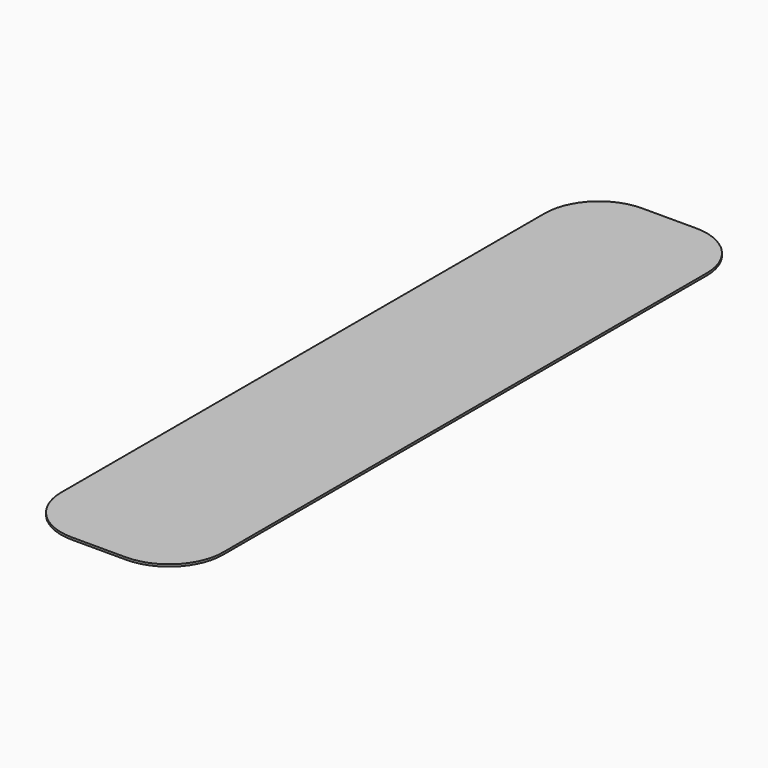
from build123d import *

# Parameters (mm, degrees)
F0_W     = 25
F0_H     = 280
F0_H_2   = 25
F1_DEPTH = 1


with BuildPart() as f1:
    # F0 (on Top) → F1 (new body)
    with BuildSketch(Plane.XY):
        with Locations((12.591098, 165.051688)):
            Rectangle(F0_W, F0_H)
        with Locations((37.591098, 165.051688)):
            Rectangle(F0_W, F0_H)
        with Locations((62.591098, 165.051688)):
            Rectangle(F0_W, F0_H)
        with BuildLine():
            Line((75.091098, 25.051688), (50.091098, 25.051688))
            Line((50.091098, 25.051688), (50.091098, 0.051688))
            ThreePointArc((50.091098, 0.051688), (67.768768, 7.374019), (75.091098, 25.051688))
        make_face()
        with Locations((37.591098, 12.551688)):
            Rectangle(F0_W, F0_H_2)
        with BuildLine():
            Line((25.091098, 0.051688), (25.091098, 25.051688))
            Line((25.091098, 25.051688), (0.091098, 25.051688))
            ThreePointArc((0.091098, 25.051688), (7.413429, 7.374019), (25.091098, 0.051688))
        make_face()
        with BuildLine():
            Line((0.091098, 305.051688), (25.091098, 305.051688))
            Line((25.091098, 305.051688), (25.091098, 330.051688))
            ThreePointArc((25.091098, 330.051688), (7.413429, 322.729358), (0.091098, 305.051688))
        make_face()
        with Locations((37.591098, 317.551688)):
            Rectangle(F0_W, F0_H_2)
        with BuildLine():
            Line((50.091098, 330.051688), (50.091098, 305.051688))
            Line((50.091098, 305.051688), (75.091098, 305.051688))
            ThreePointArc((75.091098, 305.051688), (67.768768, 322.729358), (50.091098, 330.051688))
        make_face()
    extrude(amount=F1_DEPTH)


solid = f1.part
